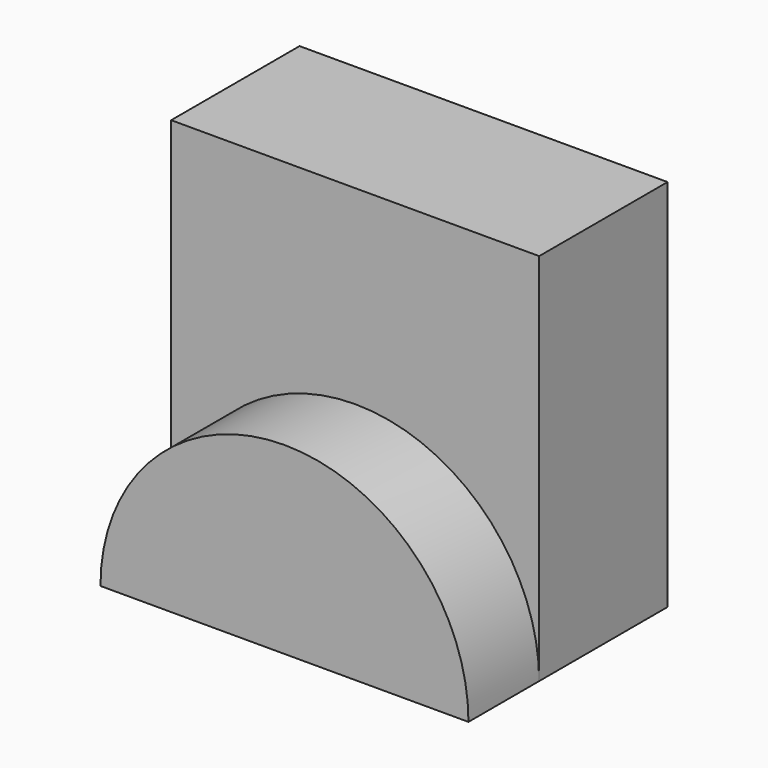
from build123d import *

# Parameters (mm, degrees)
F0_W     = 151.190631
F0_H     = 153.706558
F1_DEPTH = 65.923417
F3_DEPTH = 36.313294


with BuildPart() as f1:
    # F0 (on Front) → F1 (new body)
    with BuildSketch(Plane.XZ):
        with Locations((-0.911687, 0.695508)):
            Rectangle(F0_W, F0_H)
    extrude(amount=F1_DEPTH)

    # F2 (on face) → F3 (join)
    with BuildSketch(Plane.XZ.offset(65.923417)):
        with BuildLine():
            Line((-76.507002, -76.157771), (74.683629, -76.157771))
            ThreePointArc((74.683629, -76.157771), (-0.911687, -0.562456), (-76.507002, -76.157771))
        make_face()
    extrude(amount=F3_DEPTH)


solid = f1.part
